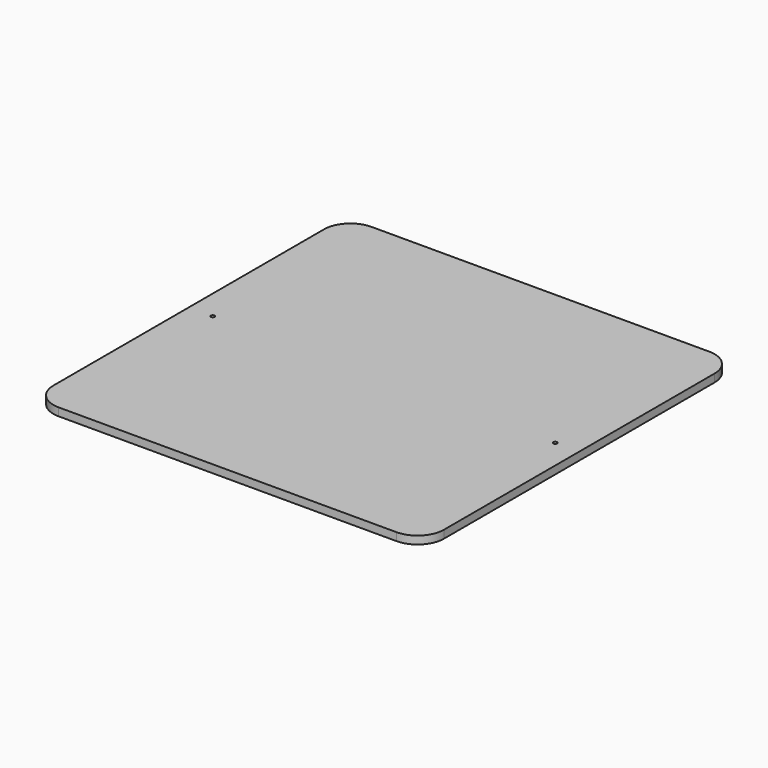
from build123d import *

# Parameters (mm, degrees)
F0_W     = 74.1
F0_H     = 74.2
F0_R     = 2.625
F1_DEPTH = 1.5
F2_R     = 0.35
F3_DEPTH = 1.501
F4_R     = 5


with BuildPart() as f1:
    # F0 (on Top) → F1 (new body)
    with BuildSketch(Plane.XY):
        with Locations((37.05, 37.1)):
            Rectangle(F0_W, F0_H)
        with Locations((4.55, 37.1)):
            Circle(F0_R, mode=Mode.SUBTRACT)
        with Locations((69.55, 37.1)):
            Circle(F0_R, mode=Mode.SUBTRACT)
        with Locations((4.55, 37.1)):
            Circle(F0_R)
        with Locations((69.55, 37.1)):
            Circle(F0_R)
    extrude(amount=F1_DEPTH)

    # F2 (on face) → F3 (cut, through all)
    with BuildSketch(Plane.XY.offset(1.5)):
        with Locations((4.55, 37.1)):
            Circle(F2_R)
        with Locations((69.55, 37.1)):
            Circle(F2_R)
    extrude(amount=-F3_DEPTH, mode=Mode.SUBTRACT)

    # F4
    f4_edges = [f1.edges().sort_by_distance(p)[0] for p in [
        (74.1, 74.2, 0.75),
        (0, 74.2, 0.75),
        (0, 0, 0.75),
        (74.1, 0, 0.75),
    ]]
    fillet(f4_edges, radius=F4_R)


solid = f1.part
